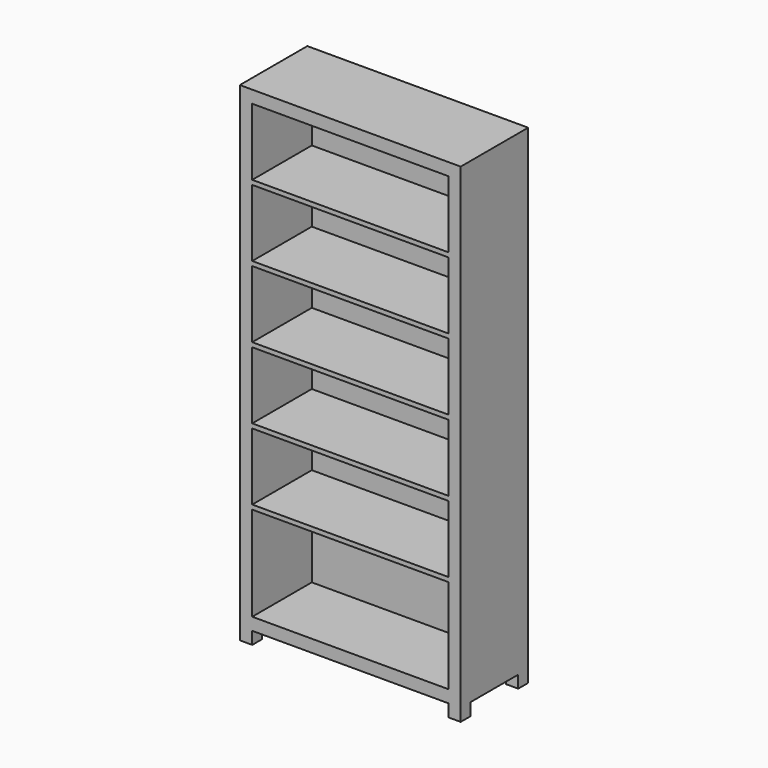
from build123d import *

# Parameters (mm, degrees)
F0_W     = 890
F0_H     = 340
F1_DEPTH = 1970
F2_W     = 790
F2_H     = 50
F3_DEPTH = 350
F2_H_2   = 380
F2_H_3   = 270
F4_DEPTH = 300
F5_W     = 240
F5_H     = 50
F6_DEPTH = 895


with BuildPart() as f1:
    # F0 (on Top) → F1 (new body)
    with BuildSketch(Plane.XY):
        with Locations((-445, 170)):
            Rectangle(F0_W, F0_H)
    extrude(amount=F1_DEPTH)

    # F2 (on face) → F3 (cut)
    with BuildSketch(Plane.XZ):
        with Locations((-445, 25)):
            Rectangle(F2_W, F2_H)
    extrude(amount=-F3_DEPTH, mode=Mode.SUBTRACT)

    # F2 (on face) → F4 (cut)
    with BuildSketch(Plane.XZ):
        with Locations((-445, 290)):
            Rectangle(F2_W, F2_H_2)
        with Locations((-445, 633)):
            Rectangle(F2_W, F2_H_3)
        with Locations((-445, 921)):
            Rectangle(F2_W, F2_H_3)
        with Locations((-445, 1209)):
            Rectangle(F2_W, F2_H_3)
        with Locations((-445, 1497)):
            Rectangle(F2_W, F2_H_3)
        with Locations((-445, 1785)):
            Rectangle(F2_W, F2_H_3)
    extrude(amount=-F4_DEPTH, mode=Mode.SUBTRACT)

    # F5 (on face) → F6 (cut)
    with BuildSketch(Plane(origin=(-890, 0, 0), x_dir=(0, -1, 0), z_dir=(-1, 0, 0))):
        with Locations((-170, 25)):
            Rectangle(F5_W, F5_H)
    extrude(amount=-F6_DEPTH, mode=Mode.SUBTRACT)


solid = f1.part
